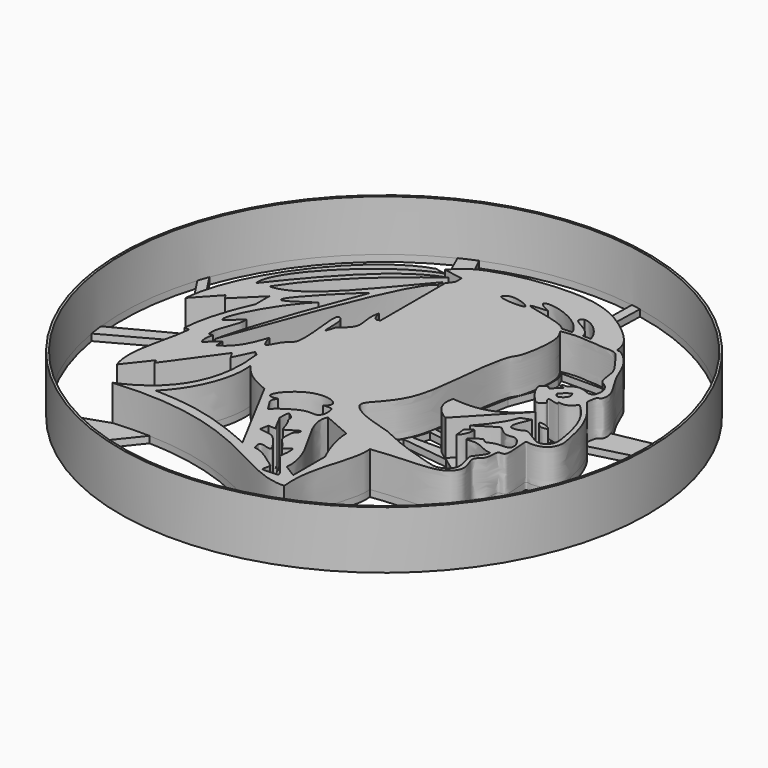
from build123d import *

# Parameters (mm, degrees)
F0_R      = 59.4873424899
F1_DEPTH  = 12
F2_T      = -0.5
F4_DEPTH  = 8
F5_DEPTH  = 1
F7_DEPTH  = 25
F8_DEPTH  = 25
F9_DEPTH  = 25
F10_DEPTH = 25
F11_DEPTH = 25
F12_DEPTH = 8
F13_DEPTH = 25
F14_DEPTH = 25
F16_DEPTH = 25
F18_DEPTH = 25


with BuildPart() as f1:
    # F0 (on Top) → F1 (new body)
    with BuildSketch(Plane.XY):
        with Locations((7.5341895083, 11.4558260064)):
            Circle(F0_R)
    extrude(amount=F1_DEPTH)

    # F2
    f2_openings = [f1.faces().sort_by_distance(p)[0] for p in [
        (7.53419, 11.455826, 12),
    ]]
    offset(amount=F2_T, openings=f2_openings)

    # F3 (on face) → F4 (join)
    with BuildSketch(Plane.XY.offset(0.5)):
        with BuildLine():
            add(Edge.make_bspline(
                [(-6.788874045, 46.4751496911), (-7.5742630288, 46.6331131756), (-8.3596520126, 46.7910766602), (-9.1450409964, 46.9490401447)],
                knots=[0, 0, 0, 0, 2.4033507577, 2.4033507577, 2.4033507577, 2.4033507577], degree=3))
            add(Edge.make_bspline(
                [(-9.1450409964, 46.9490401447), (-20.1948061585, 43.7746718526), (-35.384979099, 25.5464650691), (-36.6260893643, 10.7414200902)],
                knots=[0, 0, 0, 0, 45.4554701814, 45.4554701814, 45.4554701814, 45.4554701814], degree=3))
            add(Edge.make_bspline(
                [(-36.6260893643, 10.7414200902), (-35.0185632706, 12.4765286843), (-33.4110371768, 14.2116372784), (-31.8035110831, 15.9467458725)],
                knots=[0, 0, 0, 0, 7.0959620756, 7.0959620756, 7.0959620756, 7.0959620756], degree=3))
            add(Edge.make_bspline(
                [(-31.8035110831, 15.9467458725), (-31.5738637, 15.6150336067), (-31.3442163169, 15.2833213409), (-31.1145689338, 14.9516090751)],
                knots=[0, 0, 0, 0, 1.2103464507, 1.2103464507, 1.2103464507, 1.2103464507], degree=3))
            add(Edge.make_bspline(
                [(-31.1145689338, 14.9516090751), (-29.2510886987, 16.7850553989), (-27.3876084636, 18.6185017228), (-25.5241282284, 20.4519480467)],
                knots=[0, 0, 0, 0, 7.842624311, 7.842624311, 7.842624311, 7.842624311], degree=3))
            add(Edge.make_bspline(
                [(-25.5241282284, 20.4519480467), (-25.5241282284, 19.1528716435), (-25.5241282284, 17.8537952403), (-25.5241282284, 16.5547188371)],
                knots=[0, 0, 0, 0, 3.8972292095, 3.8972292095, 3.8972292095, 3.8972292095], degree=3))
            add(Edge.make_bspline(
                [(-25.5241282284, 16.5547188371), (-27.845768258, 11.516510509), (-29.4065847993, 6.2442268245), (-29.7001656145, 1.7376267351)],
                knots=[0, 0, 0, 0, 15.3943335877, 15.3943335877, 15.3943335877, 15.3943335877], degree=3))
            add(Edge.make_bspline(
                [(-29.7001656145, 1.7376267351), (-29.3382542829, 1.7376267351), (-28.9763429513, 1.7376267351), (-28.6144316196, 1.7376267351)],
                knots=[0, 0, 0, 0, 1.0857339948, 1.0857339948, 1.0857339948, 1.0857339948], degree=3))
            add(Edge.make_bspline(
                [(-28.6144316196, 1.7376267351), (-29.1557156791, -4.373605984), (-32.2709232569, -11.0034225509), (-30.2382837981, -16.5960714221)],
                knots=[0, 0, 0, 0, 18.4054715782, 18.4054715782, 18.4054715782, 18.4054715782], degree=3))
            add(Edge.make_bspline(
                [(-30.2382837981, -16.5960714221), (-28.7705672284, -14.7404195741), (-27.3028506587, -12.8847677261), (-25.835134089, -11.029115878)],
                knots=[0, 0, 0, 0, 7.0977969392, 7.0977969392, 7.0977969392, 7.0977969392], degree=3))
            add(Edge.make_bspline(
                [(-25.835134089, -11.029115878), (-25.702893734, -11.3504299273), (-25.570653379, -11.6717439766), (-25.4384130239, -11.9930580258)],
                knots=[0, 0, 0, 0, 1.0423876763, 1.0423876763, 1.0423876763, 1.0423876763], degree=3))
            add(Edge.make_bspline(
                [(-25.4384130239, -11.9930580258), (-22.682165727, -8.1792573522), (-19.9259184301, -4.3654566786), (-17.1696711332, -0.551656005)],
                knots=[0, 0, 0, 0, 14.1165779373, 14.1165779373, 14.1165779373, 14.1165779373], degree=3))
            add(Edge.make_bspline(
                [(-17.1696711332, -0.551656005), (-16.869980221, -1.0301717557), (-16.5702893088, -1.5086875064), (-16.2705983967, -1.9872032572)],
                knots=[0, 0, 0, 0, 1.6938499635, 1.6938499635, 1.6938499635, 1.6938499635], degree=3))
            add(Edge.make_bspline(
                [(-16.2705983967, -1.9872032572), (-15.5736378705, -0.5515369121), (-14.8766773442, 0.884129433), (-14.179716818, 2.319795778)],
                knots=[0, 0, 0, 0, 4.7876953187, 4.7876953187, 4.7876953187, 4.7876953187], degree=3))
            add(Edge.make_bspline(
                [(-14.179716818, 2.319795778), (-13.9159178361, 2.1115756826), (-13.6521188542, 1.9033555873), (-13.3883198723, 1.6951354919)],
                knots=[0, 0, 0, 0, 1.0082210069, 1.0082210069, 1.0082210069, 1.0082210069], degree=3))
            add(Edge.make_bspline(
                [(-13.3883198723, 1.6951354919), (-12.3234763741, -6.0034450144), (-13.3678512648, -17.1295609325), (-26.5038497746, -22.5158147514)],
                knots=[0, 0, 0, 0, 27.5351999503, 27.5351999503, 27.5351999503, 27.5351999503], degree=3))
            add(Edge.make_bspline(
                [(-26.5038497746, -22.5158147514), (2.4359009694, -20.0700405985), (11.1790737137, -34.7730405629), (21.64244093, -34.3111865222)],
                knots=[0, 0, 0, 0, 49.57011301, 49.57011301, 49.57011301, 49.57011301], degree=3))
            add(Edge.make_bspline(
                [(21.64244093, -34.3111865222), (20.6804629415, -25.680128485), (25.368778035, -19.0705880523), (24.6851760894, -14.0044149011)],
                knots=[0, 0, 0, 0, 20.5334656335, 20.5334656335, 20.5334656335, 20.5334656335], degree=3))
            add(Edge.make_bspline(
                [(24.6851760894, -14.0044149011), (31.4203864804, -13.0088033284), (39.8787983604, -13.9979709919), (42.9077135342, -8.9744703884), (40.2608907718, -5.2901580956), (43.3229963097, -4.1004979919), (42.502269401, -0.2400257433), (45.4807242986, -1.4947423532), (43.8006999116, 5.8275946352), (45.3189401552, 5.1097271295), (48.5448532551, 5.4593056768), (50.1701990087, 8.1834617531), (49.5092025857, 11.7358351218), (47.6457096292, 19.3782393752), (43.2128446136, 23.7401825753), (43.3420728185, 24.318962842), (43.5155714078, 26.3419427744), (44.5822257111, 26.2924371009), (45.1536300666, 28.8889895505), (41.8609584933, 33.4125296859), (40.697303877, 36.3875908589), (39.0858287296, 40.0978257462), (35.86247278, 42.8091540368), (35.1517531555, 42.4474480564), (34.9945685118, 43.3153217969), (34.6128537037, 45.5225993269), (31.289150557, 49.0320514182), (26.0818222122, 52.8339002597), (18.5846250932, 55.2442402719), (7.3532003895, 54.5085175402), (0.6225336238, 52.9054590582), (-4.8986066858, 50.7619360042), (-6.8481677391, 48.6104911669), (-7.7110002749, 47.6583093405)],
                knots=[0, 0, 0, 0, 0.0661097727, 0.0997599204, 0.1309319742, 0.156893689, 0.1851549945, 0.2045886008, 0.2447622715, 0.2596585556, 0.2892935752, 0.3172218242, 0.3485497582, 0.3971940608, 0.4370504775, 0.4495651593, 0.4718950214, 0.4863622275, 0.5104831583, 0.5501651968, 0.5809655543, 0.6155613454, 0.6486292222, 0.6600414806, 0.6733383501, 0.6979446317, 0.7345233011, 0.777255567, 0.824559771, 0.880910179, 0.9259856536, 0.966071568, 1, 1, 1, 1], degree=3))
            add(Edge.make_bspline(
                [(-7.7110002749, 47.6583093405), (-6.260347863, 47.4030052622), (-4.8096954512, 47.147701184), (-3.3590430394, 46.8923971057)],
                knots=[0, 0, 0, 0, 4.4188407225, 4.4188407225, 4.4188407225, 4.4188407225], degree=3))
            add(Edge.make_bspline(
                [(-3.3590430394, 46.8923971057), (-3.3590430394, 46.3317856193), (-3.3590430394, 45.7711741328), (-3.3590430394, 45.2105626464)],
                knots=[0, 0, 0, 0, 1.6818344593, 1.6818344593, 1.6818344593, 1.6818344593], degree=3))
            add(Edge.make_bspline(
                [(-3.3590430394, 45.2105626464), (-3.7266135526, 44.7018506626), (-4.0941840659, 44.1931386789), (-4.4617545791, 43.6844266951)],
                knots=[0, 0, 0, 0, 1.8828339496, 1.8828339496, 1.8828339496, 1.8828339496], degree=3))
            add(Edge.make_bspline(
                [(-4.4617545791, 43.6844266951), (-4.4617545791, 37.6148714374), (-4.4617545791, 31.5453161796), (-4.4617545791, 25.4757609218)],
                knots=[0, 0, 0, 0, 18.2086657733, 18.2086657733, 18.2086657733, 18.2086657733], degree=3))
            add(Edge.make_bspline(
                [(-4.4617545791, 25.4757609218), (-5.3593576886, 25.0131804496), (-5.7247309014, 25.0131804496), (-6.365370471, 27.3643154651)],
                knots=[0, 0, 0, 0, 2.6814905793, 2.6814905793, 2.6814905793, 2.6814905793], degree=3))
            add(Edge.make_bspline(
                [(-6.365370471, 27.3643154651), (-7.118516136, 24.8921699822), (-5.1342164855, 21.3389590115), (-7.8621859997, 19.3585443787), (-8.8928146288, 18.5253284872)],
                knots=[0, 0, 0, 0, 0.5533497919, 1, 1, 1, 1], degree=3))
            add(Edge.make_bspline(
                [(-8.8928146288, 18.5253284872), (-9.2199804976, 17.4240633886), (-10.0085418204, 14.7697062393), (-9.5136907121, 21.0216328153), (-11.1201298538, 22.3067423911), (-11.8491541767, 20.3660341732), (-9.7945632488, 9.3736280074), (-12.8899344897, 8.8138300439), (-14.4504683707, 4.1770807777), (-15.2434695909, 6.7969305221), (-15.628721565, 8.0696931109)],
                knots=[0, 0, 0, 0, 0.1039952813, 0.2506577379, 0.3357497927, 0.4187182038, 0.645798299, 0.7602652643, 0.8835332433, 1, 1, 1, 1], degree=3))
            add(Edge.make_bspline(
                [(-15.628721565, 8.0696931109), (-16.8774724007, 4.0619284846), (-18.5199882835, 1.2876591645), (-21.1115125567, 0)],
                knots=[0, 0, 0, 0, 9.7560721585, 9.7560721585, 9.7560721585, 9.7560721585], degree=3))
            add(Edge.make_bspline(
                [(-21.1115125567, 0), (-21.1115125567, 0.6004122552), (-21.1115125567, 1.2008245103), (-21.1115125567, 1.8012367655)],
                knots=[0, 0, 0, 0, 1.8012367655, 1.8012367655, 1.8012367655, 1.8012367655], degree=3))
            add(Edge.make_bspline(
                [(-21.1115125567, 1.8012367655), (-22.0608326296, 1.0234053868), (-23.0101527025, 0.2455740081), (-23.9594727755, -0.5322573707)],
                knots=[0, 0, 0, 0, 3.6818571796, 3.6818571796, 3.6818571796, 3.6818571796], degree=3))
            add(Edge.make_bspline(
                [(-23.9594727755, -0.5322573707), (-24.356212467, 0), (-24.4296342134, 1.3129552826), (-23.9594727755, 2.6693968102)],
                knots=[0, 0, 0, 0, 3.2016541809, 3.2016541809, 3.2016541809, 3.2016541809], degree=3))
            add(Edge.make_bspline(
                [(-23.9594727755, 2.6693968102), (-24.2742293825, 2.6693968102), (-24.5889859895, 2.6693968102), (-24.9037425965, 2.6693968102)],
                knots=[0, 0, 0, 0, 0.944269821, 0.944269821, 0.944269821, 0.944269821], degree=3))
            add(Edge.make_bspline(
                [(-24.9037425965, 2.6693968102), (-25.3733620048, 5.5338004604), (-22.7999053895, 8.2243969664), (-23.1472477317, 11.0114775598)],
                knots=[0, 0, 0, 0, 8.5249976799, 8.5249976799, 8.5249976799, 8.5249976799], degree=3))
            add(Edge.make_bspline(
                [(-23.1472477317, 11.0114775598), (-24.1456733396, 10.1085702578), (-25.1440989474, 9.2056629558), (-26.1425245553, 8.3027556539)],
                knots=[0, 0, 0, 0, 4.0384226641, 4.0384226641, 4.0384226641, 4.0384226641], degree=3))
            add(Edge.make_bspline(
                [(-26.1425245553, 8.3027556539), (-28.1542707235, 7.700425107), (-22.5793942809, 19.4159504026), (-17.2420535237, 24.0014009178)],
                knots=[0, 0, 0, 0, 18.0462142209, 18.0462142209, 18.0462142209, 18.0462142209], degree=3))
            add(Edge.make_bspline(
                [(-17.2420535237, 24.0014009178), (-32.1297980845, 13.32757622), (-14.5121896639, 31.1077330261), (-12.4483183026, 32.5140841305)],
                knots=[0, 0, 0, 0, 9.7696301286, 9.7696301286, 9.7696301286, 9.7696301286], degree=3))
            add(Edge.make_bspline(
                [(-12.4483183026, 32.5140841305), (-16.4897162467, 22.0156740397), (-20.3830059618, 11.8797151372), (-22.8438787162, 1.7358621117)],
                knots=[0, 0, 0, 0, 32.4864068028, 32.4864068028, 32.4864068028, 32.4864068028], degree=3))
            add(Edge.make_bspline(
                [(-22.8438787162, 1.7358621117), (-17.1813182533, 16.6642982513), (-9.2742322013, 39.8760512471), (-5.0879502669, 42.356107384)],
                knots=[0, 0, 0, 0, 44.3314484433, 44.3314484433, 44.3314484433, 44.3314484433], degree=3))
            add(Edge.make_bspline(
                [(-5.0879502669, 42.356107384), (-5.0879502669, 42.7898851534), (-5.0879502669, 43.2236629228), (-5.0879502669, 43.6574406922)],
                knots=[0, 0, 0, 0, 1.3013333082, 1.3013333082, 1.3013333082, 1.3013333082], degree=3))
            add(Edge.make_bspline(
                [(-5.0879502669, 43.6574406922), (-12.7684986219, 34.9499061704), (-20.4359199852, 23.6657764763), (-27.8762094676, 23.3720503747)],
                knots=[0, 0, 0, 0, 30.5090448512, 30.5090448512, 30.5090448512, 30.5090448512], degree=3))
            add(Edge.make_bspline(
                [(-27.8762094676, 23.3720503747), (-21.9308249652, 32.5869880617), (-13.2507262751, 39.8686304688), (-5.3421910852, 45.7035824656)],
                knots=[0, 0, 0, 0, 31.725058077, 31.725058077, 31.725058077, 31.725058077], degree=3))
            add(Edge.make_bspline(
                [(-5.3421910852, 45.7035824656), (-13.974067755, 42.8102165461), (-22.2201626748, 33.3103314042), (-30.4662566632, 22.9424349964)],
                knots=[0, 0, 0, 0, 33.9011578753, 33.9011578753, 33.9011578753, 33.9011578753], degree=3))
            add(Edge.make_bspline(
                [(-30.4662566632, 22.9424349964), (-31.5753817558, 28.1504951417), (-17.1567704529, 43.1960001588), (-6.788874045, 46.4751496911)],
                knots=[0, 0, 0, 0, 33.3827366846, 33.3827366846, 33.3827366846, 33.3827366846], degree=3))
        make_face()
        with BuildLine():
            add(Edge.make_bspline(
                [(5.6154187769, -26.0367877781), (2.3542245229, -19.9070692373), (-0.9069697311, -13.7773506964), (-4.168163985, -7.6476321556)],
                knots=[0, 0, 0, 0, 20.8297752309, 20.8297752309, 20.8297752309, 20.8297752309], degree=3))
            add(Edge.make_bspline(
                [(-18.6542645097, -20.1154593378), (-8.2356445491, -20.3407425433), (-1.9417622825, -22.6660370827), (5.6154187769, -26.0367877781)],
                knots=[0, 0, 0, 0, 24.9815863653, 24.9815863653, 24.9815863653, 24.9815863653], degree=3))
            add(Edge.make_bspline(
                [(-11.5750683472, -2.2398305591), (-10.9035726637, -7.2967535816), (-13.1941875443, -14.6317481995), (-18.6542645097, -20.1154593378)],
                knots=[0, 0, 0, 0, 19.2263652972, 19.2263652972, 19.2263652972, 19.2263652972], degree=3))
            add(Edge.make_bspline(
                [(-4.168163985, -7.6476321556), (-6.3726911321, -6.5617035143), (-9.1454936191, -5.7854270563), (-11.5750683472, -2.2398305591)],
                knots=[0, 0, 0, 0, 9.1709623452, 9.1709623452, 9.1709623452, 9.1709623452], degree=3))
        make_face(mode=Mode.SUBTRACT)
        with BuildLine():
            add(Edge.make_bspline(
                [(0, -9.0572061017), (-0.2645310114, -9.5932930411), (-0.7468147702, -10.5706681428), (0.045301663, -11.3902813622), (0.8668066057, -12.9619343187), (1.2294716724, -13.3488076403), (1.446455229, -12.7144195316), (4.9688961665, -10.1774777337), (7.4980891636, -9.5151932481), (9.2376402936, -9.8583079088), (10.154662228, -8.8148276058), (10.1546068209, -7.4633232437), (10.0039312514, -5.837833383), (8.6272584522, -6.0245212892), (7.8701674938, -6.1271889135)],
                knots=[0, 0, 0, 0, 0.0854154269, 0.1557264417, 0.2483645889, 0.2885944446, 0.3324989132, 0.4740921562, 0.58933418, 0.6747000331, 0.7479744251, 0.8286680234, 0.9057772548, 1, 1, 1, 1], degree=3))
            add(Edge.make_bspline(
                [(0, -9.0572061017), (-4.1452348232, -10.3760696948), (2.5014719152, -0.4098009415), (10.6831286103, -4.2017106898), (7.8701674938, -6.1271889135)],
                knots=[0, 0, 0, 0, 0.5210447841, 1, 1, 1, 1], degree=3))
        make_face(mode=Mode.SUBTRACT)
        with BuildLine():
            add(Edge.make_bspline(
                [(5.1498264074, -12.225119397), (4.5958240516, -12.9457740113), (4.9169271563, -13.7789739917), (4.8004775308, -14.555901289)],
                knots=[0, 0, 0, 0, 2.3568175291, 2.3568175291, 2.3568175291, 2.3568175291], degree=3))
            add(Edge.make_bspline(
                [(4.7987098806, -20.0785342604), (5.7724814743, -20.1913483877), (7.4189069578, -20.382091325), (8.5375255167, -21.0836039101), (9.9708354738, -22.7735619201), (10.9635640927, -24.3487015152), (11.16140044, -24.8108655945), (10.0607985348, -24.8452604894), (9.5527738546, -24.4681972349), (8.1187968022, -24.3535355809), (8.2567802975, -25.1298492888), (8.3967630208, -26.2692409476), (9.2341103937, -26.2527518827), (11.298443378, -27.0787968976), (14.4937781974, -29.4687889017), (14.9215131708, -29.7666674646), (14.9290560067, -30.329866858), (14.6267408098, -31.5877046431), (14.8071931115, -31.9791222955), (17.869888894, -31.7424544441), (18.2831302431, -31.7203881576), (18.202149259, -30.9372767697), (14.1100233743, -26.1422164865), (13.883406967, -25.9214359625), (14.1063020353, -25.3431630773), (14.2329730459, -22.9118384268), (14.0683993938, -22.319332604), (13.6318646713, -22.5819750792), (12.5311656159, -23.4799370597), (12.1242546462, -23.1901193877), (11.8274455444, -22.1645752032), (10.0699772346, -20.9803716058), (10.0700256937, -19.3210268091), (10.0243759329, -17.4988796803), (11.0617744307, -16.8216214917), (11.0779036061, -16.1299363866), (10.3160442714, -16.3432905785), (8.5285099944, -17.5896632623), (7.8283825333, -17.8436675884), (7.4308310994, -15.3233460051), (6.2618545096, -14.1348071238), (6.6652358074, -13.2914899285), (5.7312741391, -12.6342753166), (5.1498264074, -12.225119397)],
                knots=[0, 0, 0, 0, 0.0366641339, 0.0619906812, 0.0960437549, 0.1270632893, 0.1389348515, 0.159781213, 0.1797196774, 0.2036789562, 0.2209840277, 0.2439688327, 0.2616900715, 0.2963372589, 0.3415305119, 0.3563490622, 0.3726165288, 0.398118428, 0.4105827178, 0.4497683635, 0.4629390012, 0.4804220758, 0.5373497892, 0.5494581316, 0.5659472094, 0.6019573018, 0.6170074514, 0.6312143004, 0.6577345718, 0.6709040271, 0.6934331836, 0.7252530482, 0.7538667532, 0.7835824673, 0.8075318196, 0.8223137334, 0.8395887224, 0.8738706133, 0.889141067, 0.9232129585, 0.9520974743, 0.9701777751, 1, 1, 1, 1], degree=3))
            Line((4.7987098806, -20.0785342604), (5.1620141603, -18.1744359434))
            add(Edge.make_bspline(
                [(4.8004775308, -14.555901289), (5.4555494426, -15.8678510469), (6.3480411218, -17.65529487), (7.0221805838, -18.1885866948), (6.3686234632, -18.2427794337), (5.6347310381, -18.2012110737), (5.1620141603, -18.1744359434)],
                knots=[0, 0, 0, 0, 0.4365685924, 0.5947955165, 0.7389985347, 1, 1, 1, 1], degree=3))
        make_face(mode=Mode.SUBTRACT)
        with BuildLine():
            add(Edge.make_bspline(
                [(17.4773391336, -28.3899214119), (18.162522465, -20.6016898155), (9.1288490221, -14.0882572159), (11.3532589749, -9.150291793)],
                knots=[0, 0, 0, 0, 20.1907826906, 20.1907826906, 20.1907826906, 20.1907826906], degree=3))
            add(Edge.make_bspline(
                [(11.3532589749, -9.150291793), (13.4800349673, -10.0695453584), (15.6068109597, -10.9887989238), (17.7335869521, -11.9080524892)],
                knots=[0, 0, 0, 0, 6.9508149993, 6.9508149993, 6.9508149993, 6.9508149993], degree=3))
            add(Edge.make_bspline(
                [(17.7335869521, -11.9080524892), (17.7680533379, -15.1724759489), (19.2658808082, -18.9675502479), (20.3504525125, -21.1802013218)],
                knots=[0, 0, 0, 0, 9.6343515265, 9.6343515265, 9.6343515265, 9.6343515265], degree=3))
            add(Edge.make_bspline(
                [(20.3504525125, -21.1802013218), (20.3504525125, -24.1771942625), (20.3504525125, -27.1741872032), (20.3504525125, -30.171180144)],
                knots=[0, 0, 0, 0, 8.9909788221, 8.9909788221, 8.9909788221, 8.9909788221], degree=3))
            add(Edge.make_bspline(
                [(20.3504525125, -30.171180144), (19.3927480529, -29.5774272333), (18.4350435932, -28.9836743226), (17.4773391336, -28.3899214119)],
                knots=[0, 0, 0, 0, 3.3804826813, 3.3804826813, 3.3804826813, 3.3804826813], degree=3))
        make_face(mode=Mode.SUBTRACT)
        with BuildLine():
            add(Edge.make_bspline(
                [(22.7694474161, 42.0021675527), (23.3083089528, 41.2060983867), (24.7003362064, 39.1496332294), (23.339719649, 30.2437580014), (21.7974243238, 29.0349786844), (20.5693784705, 22.7953377591), (19.8683694179, 14.5370699684), (18.6136479651, 6.1220995523), (14.7879140743, 1.2598356693), (11.4162914068, -2.0794907026), (17.2021845317, -5.3083596742), (22.4276363402, -6.3010036723), (27.3605871789, -9.0986095135), (36.5682887264, -11.8889052883), (38.1187957301, -12.0350404958), (39.6592615057, -11.5388666283), (41.1559693192, -10.0940688961), (41.0045624293, -8.0045640484), (40.2409309864, -5.6026004543), (40.1477463145, -4.9709620413), (41.6733432587, -3.3791698623), (42.3798396081, -1.6912172401), (40.9999497266, -1.9761399213), (37.9789433904, 0.0820981817), (35.4702663094, -0.7167675846), (35.6356622801, 0.1771675537), (37.5055518175, 1.2662784934), (37.9128459719, 1.5225040467), (38.3125038983, 1.179929435), (38.9651807945, 0.5345109109), (40.4302499003, 1.7431372107), (43.5158164187, 1.3380904192), (43.8883110807, 2.504431153), (43.8210130606, 3.5136055123), (42.1293934621, 5.9073521246), (39.8837870663, 4.7363992183), (38.040155106, 6.6909883538), (37.475059578, 6.8980085427), (36.9422863366, 6.6472757985), (34.6427773026, 5.1828125762), (32.8684300184, 4.052803386)],
                knots=[0, 0, 0, 0, 0.0300913732, 0.0777342762, 0.1007623302, 0.140081111, 0.1889991456, 0.2366536396, 0.277800779, 0.3078677864, 0.3451087119, 0.3837277213, 0.4243119924, 0.4745626062, 0.494656109, 0.5145705231, 0.5371829726, 0.5609590076, 0.5866673852, 0.599027368, 0.6235444962, 0.6428588699, 0.6580934884, 0.6899345088, 0.7136111822, 0.7244733367, 0.7488830479, 0.7597248954, 0.7707365591, 0.7846452827, 0.806040571, 0.8339349906, 0.849285546, 0.8659139216, 0.8916361893, 0.9154033301, 0.9408233602, 0.9525273551, 0.9633691552, 1, 1, 1, 1], degree=3))
            add(Edge.make_bspline(
                [(41.1039143801, 8.2325562835), (41.3458143738, 8.4154196703), (41.8698152277, 8.8115361373), (43.0118251511, 8.2219383103), (44.5133712993, 7.3123500614), (45.5859154377, 6.520146273), (46.7109761989, 6.3386192338), (47.9734709185, 6.9622970822), (48.8840992971, 8.2697135757), (48.5572945938, 11.1288847051), (47.4543858931, 16.2217234467), (45.2930140729, 20.0898679386), (43.3103316297, 21.8898742823), (42.9476578631, 22.294669801), (42.5707279097, 21.6474310552), (41.5378451518, 20.5997323738), (39.9607563352, 20.4925298303), (39.2473180857, 20.8354944876), (40.1221125478, 19.7702791727), (37.5915975161, 20.6597867226), (37.2652511683, 20.6046807792), (37.2360397126, 20.1465030028), (37.8943703264, 19.531603776), (37.9627056496, 18.9216099187), (36.6170708291, 18.0767062497), (36.0219411564, 18.4568366484), (34.3998075171, 20.0562827093), (32.897394685, 22.5538052724), (32.9535222764, 23.5760222145), (33.7053143981, 24.0856028207), (34.4722548992, 24.3198778416), (34.619126791, 23.6206350541), (35.4782608985, 24.159791069), (35.9283190637, 25.0697022537), (36.7569035951, 25.3662474024), (36.7368418242, 25.7223329743), (35.7120517226, 25.6203735713), (35.8113453568, 26.4157207344), (36.8304242047, 26.2132615063), (37.1729975667, 26.6494424821), (38.5853179804, 27.4844415793), (40.2687134298, 27.1182295007), (41.3162100956, 26.5049817692), (42.6122881053, 26.6726356618), (42.8748768138, 28.0331202832), (42.9881809305, 29.2385246869), (41.8004025348, 31.0199662561), (40.1845194969, 31.4115203432), (40.029370182, 34.5035315048), (39.474454535, 36.64735631), (37.3858299238, 39.1511196472), (36.4485529284, 40.6720282434), (35.0647965284, 42.1258308888), (32.149014834, 41.8310991311), (31.1084640869, 42.2156340317), (28.9531310613, 42.1468758981), (27.403529759, 42.4249894498), (25.2902171771, 42.4033707823), (23.6421172181, 42.1410608179), (22.7694474161, 42.0021675527)],
                knots=[0, 0, 0, 0, 0.0141138809, 0.0305733188, 0.0512032397, 0.0687906958, 0.0844507223, 0.1019970607, 0.1201923454, 0.1454167653, 0.1806724483, 0.2136150859, 0.2377575285, 0.2465108285, 0.2579901999, 0.2766933778, 0.2961430988, 0.3057156501, 0.3163223347, 0.3380611206, 0.346629243, 0.3555234092, 0.3697841752, 0.3806837079, 0.3986016642, 0.4103934901, 0.43352597, 0.4598263931, 0.4739157017, 0.4881270647, 0.5004951515, 0.510514878, 0.523705825, 0.5398219788, 0.5532355534, 0.5595556556, 0.5734318733, 0.5832670224, 0.5973309489, 0.6084569487, 0.6273236812, 0.6471557364, 0.6640498659, 0.6797446594, 0.6965138833, 0.7134895096, 0.7348639487, 0.7532214589, 0.7784617029, 0.802045437, 0.8291033477, 0.8497691841, 0.8704701579, 0.8956396864, 0.9122198924, 0.9339929974, 0.9535003746, 0.9753784237, 1, 1, 1, 1], degree=3))
            add(Edge.make_bspline(
                [(39.971806109, 12.6014379784), (38.7163423002, 9.8341936246), (37.2641049325, 6.8497634493), (41.1039143801, 8.2325562835)],
                knots=[0, 0, 0, 0, 4.513180298, 4.513180298, 4.513180298, 4.513180298], degree=3))
            add(Edge.make_bspline(
                [(37.8731153905, 11.8517996743), (38.5969355702, 12.0096486062), (39.2722425361, 12.3515585437), (39.971806109, 12.6014379784)],
                knots=[0, 0, 0, 0, 2.2285556575, 2.2285556575, 2.2285556575, 2.2285556575], degree=3))
            add(Edge.make_bspline(
                [(32.8684300184, 4.052803386), (35.1543352008, 6.6129611805), (37.0475053787, 9.2202983797), (37.8731153905, 11.8517996743)],
                knots=[0, 0, 0, 0, 9.2666724761, 9.2666724761, 9.2666724761, 9.2666724761], degree=3))
        make_face(mode=Mode.SUBTRACT)
        with BuildLine():
            add(Edge.make_bspline(
                [(39.3373444676, 24.8138103634), (38.358874619, 24.3918970227), (37.7298556268, 23.7169340253), (37.1767580509, 23.0619870126)],
                knots=[0, 0, 0, 0, 2.7815496969, 2.7815496969, 2.7815496969, 2.7815496969], degree=3))
            add(Edge.make_bspline(
                [(37.1767580509, 23.0619870126), (37.3756509371, 22.6751774527), (37.8374525236, 21.7770595166), (39.9642962209, 23.3651163837), (39.534880586, 24.3573647374), (39.3373444676, 24.8138103634)],
                knots=[0, 0, 0, 0, 0.2900280562, 0.6734047609, 1, 1, 1, 1], degree=3))
        make_face(mode=Mode.SUBTRACT)
        with BuildLine():
            add(Edge.make_bspline(
                [(12.0508754626, 45.5157607794), (11.8903952277, 45.01421395), (7.187120307, 45.1966179332), (6.049689684, 45.933769528), (7.9535604987, 47.6971759292), (12.2008388916, 45.9844395694), (12.0508754626, 45.5157607794)],
                knots=[0, 0, 0, 0, 0.329129771, 0.4813026068, 0.6924392025, 1, 1, 1, 1], degree=3))
        make_face(mode=Mode.SUBTRACT)
        with BuildLine():
            add(Edge.make_bspline(
                [(16.197104007, 46.7562191188), (5.8987387456, 46.249512583), (20.9046564996, 45.3788489103), (22.3117284477, 42.9563298821)],
                knots=[0, 0, 0, 0, 7.1991520516, 7.1991520516, 7.1991520516, 7.1991520516], degree=3))
            add(Edge.make_bspline(
                [(16.197104007, 46.7562191188), (8.6119314656, 50.1434914768), (21.8000095338, 49.5852306485), (24.7104875743, 43.0607125163)],
                knots=[0, 0, 0, 0, 9.2808657362, 9.2808657362, 9.2808657362, 9.2808657362], degree=3))
            add(Edge.make_bspline(
                [(24.7104875743, 43.0607125163), (23.9109011988, 43.0259183049), (23.1113148232, 42.9911240935), (22.3117284477, 42.9563298821)],
                knots=[0, 0, 0, 0, 2.4010291714, 2.4010291714, 2.4010291714, 2.4010291714], degree=3))
        make_face(mode=Mode.SUBTRACT)
        with BuildLine():
            add(Edge.make_bspline(
                [(27.0085874945, 43.1164875627), (27.6098034034, 43.1154395143), (28.2110193123, 43.114391466), (28.8122352213, 43.1133434176)],
                knots=[0, 0, 0, 0, 1.8036504672, 1.8036504672, 1.8036504672, 1.8036504672], degree=3))
            add(Edge.make_bspline(
                [(23.3673397452, 48.0997934937), (20.6358563155, 46.5792417526), (26.646591723, 46.150624752), (27.0085874945, 43.1164875627)],
                knots=[0, 0, 0, 0, 6.1718735547, 6.1718735547, 6.1718735547, 6.1718735547], degree=3))
            add(Edge.make_bspline(
                [(28.8122352213, 43.1133434176), (28.1585734338, 45.539803803), (25.3436267376, 48.2661165297), (23.3673397452, 48.0997934937)],
                knots=[0, 0, 0, 0, 7.3831951828, 7.3831951828, 7.3831951828, 7.3831951828], degree=3))
        make_face(mode=Mode.SUBTRACT)
        with BuildLine():
            add(Edge.make_bspline(
                [(27.5980774313, 3.649901133), (31.2589456638, 7.518600362), (34.9198138962, 11.3872995911), (38.5806821287, 15.2559988201)],
                knots=[0, 0, 0, 0, 15.9787080034, 15.9787080034, 15.9787080034, 15.9787080034], degree=3))
            add(Edge.make_bspline(
                [(38.5806821287, 15.2559988201), (33.9488722384, 10.6151876971), (30.6446384639, 9.404104203), (24.2309141904, 10.1012494415)],
                knots=[0, 0, 0, 0, 15.2475336051, 15.2475336051, 15.2475336051, 15.2475336051], degree=3))
            add(Edge.make_bspline(
                [(24.2309141904, 10.1012494415), (22.9933485389, 6.3361474313), (26.6844965518, 4.0821200237), (27.5980774313, 3.649901133)],
                knots=[0, 0, 0, 0, 7.2772029852, 7.2772029852, 7.2772029852, 7.2772029852], degree=3))
        make_face()
        with BuildLine():
            add(Edge.make_bspline(
                [(44.4371141493, 11.5220332518), (44.2429631948, 11.881550774), (43.1179367006, 12.8195555881), (41.605681181, 12.5849200413)],
                knots=[0, 0, 0, 0, 3.0243579453, 3.0243579453, 3.0243579453, 3.0243579453], degree=3))
            add(Edge.make_bspline(
                [(41.605681181, 12.5849200413), (41.9648755162, 12.0829158756), (42.6793400298, 11.0843918822), (43.8533388173, 11.3766879353), (44.4371141493, 11.5220332518)],
                knots=[0, 0, 0, 0, 0.5027462224, 1, 1, 1, 1], degree=3))
        make_face()
    extrude(amount=F4_DEPTH)

    # F5 (add): a face of the model
    f5_faces = [f1.faces().sort_by_distance(p)[0] for p in [
        (7.5341895083, 11.4558260064, 0),
    ]]
    extrude(f5_faces, amount=F5_DEPTH)

    # F6 (on face) → F7 (cut)
    with BuildSketch(Plane.XY.offset(0.5)):
        with BuildLine():
            Line((-47.9253143948, 31.5493573249), (-36.2070467981, 13.6930933465))
            add(Edge.make_bspline(
                [(-10.399095005, 46.5314860664), (-20.5663988994, 42.6984903232), (-33.5222030052, 27.3059485133), (-36.2070467981, 13.6930933465)],
                knots=[1.6971501535, 1.6971501535, 1.6971501535, 1.6971501535, 42.4745267545, 42.4745267545, 42.4745267545, 42.4745267545], degree=3))
            Line((-10.399095005, 46.5314860664), (-18.3214680274, 64.4746108607))
            ThreePointArc((-18.3214680274, 64.4746108607), (-36.3298840606, 50.8950149429), (-47.9253143948, 31.5493573249))
        make_face()
    extrude(amount=-F7_DEPTH, mode=Mode.SUBTRACT)

    # F6 (on face) → F8 (cut)
    with BuildSketch(Plane.XY.offset(0.5)):
        with BuildLine():
            ThreePointArc((16.7770039132, 69.7145331316), (0.7733759278, 70.0544435136), (-14.7323842228, 66.0791385048))
            Line((-14.7323842228, 66.0791385048), (-6.4431268598, 49.0037215726))
            add(Edge.make_bspline(
                [(16.5396461007, 54.7766642424), (13.4906295802, 54.90201676), (6.8648060157, 54.3921955218), (0.6225336238, 52.9054590582), (-4.1583763016, 51.0493224506), (-5.9380775133, 49.5005995164), (-6.4431268598, 49.0037215726)],
                knots=[0.8348282285, 0.8348282285, 0.8348282285, 0.8348282285, 0.880910179, 0.9259856536, 0.966071568, 0.9840333882, 0.9840333882, 0.9840333882, 0.9840333882], degree=3))
            Line((16.5396461007, 54.7766642424), (16.7770039132, 69.7145331316))
        make_face()
        with BuildLine():
            Line((-8.9104040677, 44.1349131496), (-9.8624872563, 45.2279658656))
            add(Edge.make_bspline(
                [(-30.4662566632, 22.9424349964), (-31.469142223, 27.651631776), (-19.7765267743, 40.4039385174), (-9.8624872563, 45.2279658656)],
                knots=[0, 0, 0, 0, 30.1851114812, 30.1851114812, 30.1851114812, 30.1851114812], degree=3))
            add(Edge.make_bspline(
                [(-8.9104040677, 44.1349131496), (-16.2600682802, 40.159960392), (-23.3631628172, 31.8732258985), (-30.4662566632, 22.9424349964)],
                knots=[4.6990767187, 4.6990767187, 4.6990767187, 4.6990767187, 33.9011578753, 33.9011578753, 33.9011578753, 33.9011578753], degree=3))
        make_face()
        with BuildLine():
            Line((-7.1342304328, 41.2855426071), (-8.5003296204, 43.3207690828))
            add(Edge.make_bspline(
                [(-27.8762094676, 23.3720503747), (-22.7141613865, 31.3728704033), (-15.4905525365, 37.9162782748), (-8.5003296204, 43.3207690828)],
                knots=[0, 0, 0, 0, 27.5451108509, 27.5451108509, 27.5451108509, 27.5451108509], degree=3))
            add(Edge.make_bspline(
                [(-7.1342304328, 41.2855426071), (-14.1288683025, 33.0319337642), (-21.0968252582, 23.6396854042), (-27.8762094676, 23.3720503747)],
                knots=[2.7100543149, 2.7100543149, 2.7100543149, 2.7100543149, 30.5090448512, 30.5090448512, 30.5090448512, 30.5090448512], degree=3))
        make_face()
        with BuildLine():
            add(Edge.make_bspline(
                [(-4.4617545791, 40.0326699018), (-4.4617545791, 35.1803669085), (-4.4617545791, 30.3280639152), (-4.4617545791, 25.4757609218)],
                knots=[3.6517567933, 3.6517567933, 3.6517567933, 3.6517567933, 18.2086657733, 18.2086657733, 18.2086657733, 18.2086657733], degree=3))
            Line((-4.4617545791, 40.0326699018), (-6.6679895796, 40.7259275228))
            add(Edge.make_bspline(
                [(-21.8232046373, 4.4485349176), (-16.9426123339, 17.5073668085), (-10.768630653, 35.0583567184), (-6.6679895796, 40.7259275228)],
                knots=[2.6060141281, 2.6060141281, 2.6060141281, 2.6060141281, 39.2416049207, 39.2416049207, 39.2416049207, 39.2416049207], degree=3))
            Line((-21.8232046373, 4.4485349176), (-21.1115125567, 1.8012367655))
            add(Edge.make_bspline(
                [(-21.1115125567, 0), (-21.1115125567, 0.6004122552), (-21.1115125567, 1.2008245103), (-21.1115125567, 1.8012367655)],
                knots=[0, 0, 0, 0, 1.8012367655, 1.8012367655, 1.8012367655, 1.8012367655], degree=3))
            add(Edge.make_bspline(
                [(-15.628721565, 8.0696931109), (-16.8774724007, 4.0619284846), (-18.5199882835, 1.2876591645), (-21.1115125567, 0)],
                knots=[0, 0, 0, 0, 9.7560721585, 9.7560721585, 9.7560721585, 9.7560721585], degree=3))
            add(Edge.make_bspline(
                [(-8.8928146288, 18.5253284872), (-9.2199804976, 17.4240633886), (-10.0085418204, 14.7697062393), (-9.5136907121, 21.0216328153), (-11.1201298538, 22.3067423911), (-11.8491541767, 20.3660341732), (-9.7945632488, 9.3736280074), (-12.8899344897, 8.8138300439), (-14.4504683707, 4.1770807777), (-15.2434695909, 6.7969305221), (-15.628721565, 8.0696931109)],
                knots=[0, 0, 0, 0, 0.1039952813, 0.2506577379, 0.3357497927, 0.4187182038, 0.645798299, 0.7602652643, 0.8835332433, 1, 1, 1, 1], degree=3))
            add(Edge.make_bspline(
                [(-6.365370471, 27.3643154651), (-7.118516136, 24.8921699822), (-5.1342164855, 21.3389590115), (-7.8621859997, 19.3585443787), (-8.8928146288, 18.5253284872)],
                knots=[0, 0, 0, 0, 0.5533497919, 1, 1, 1, 1], degree=3))
            add(Edge.make_bspline(
                [(-4.4617545791, 25.4757609218), (-5.3593576886, 25.0131804496), (-5.7247309014, 25.0131804496), (-6.365370471, 27.3643154651)],
                knots=[0, 0, 0, 0, 2.6814905793, 2.6814905793, 2.6814905793, 2.6814905793], degree=3))
        make_face()
        with BuildLine():
            Line((-17.2420535237, 24.0014009178), (-15.6944825238, 24.0014009178))
            add(Edge.make_bspline(
                [(-12.4483183026, 32.5140841305), (-13.5500533873, 29.6520876407), (-14.6407814377, 26.8170276193), (-15.6944825238, 24.0014009178)],
                knots=[0, 0, 0, 0, 8.8561964556, 8.8561964556, 8.8561964556, 8.8561964556], degree=3))
            add(Edge.make_bspline(
                [(-17.2420535237, 24.0014009178), (-32.1297980845, 13.32757622), (-14.5121896639, 31.1077330261), (-12.4483183026, 32.5140841305)],
                knots=[0, 0, 0, 0, 9.7696301286, 9.7696301286, 9.7696301286, 9.7696301286], degree=3))
        make_face()
        with BuildLine():
            Line((-24.8488827467, 4.4705939637), (-22.1466891376, 4.4705939637))
            add(Edge.make_bspline(
                [(-16.2441395112, 22.5249280231), (-18.4941386844, 16.4473248551), (-20.5494970359, 10.454543706), (-22.1466891376, 4.4705939637)],
                knots=[10.4060456536, 10.4060456536, 10.4060456536, 10.4060456536, 29.5670988114, 29.5670988114, 29.5670988114, 29.5670988114], degree=3))
            Line((-16.2441395112, 22.5249280231), (-18.7566935396, 22.5249280231))
            add(Edge.make_bspline(
                [(-26.1425245553, 8.3027556539), (-27.9639406852, 7.7574112208), (-23.5663580303, 17.3094097618), (-18.7566935396, 22.5249280231)],
                knots=[0, 0, 0, 0, 16.3388732567, 16.3388732567, 16.3388732567, 16.3388732567], degree=3))
            add(Edge.make_bspline(
                [(-23.1472477317, 11.0114775598), (-24.1456733396, 10.1085702578), (-25.1440989474, 9.2056629558), (-26.1425245553, 8.3027556539)],
                knots=[0, 0, 0, 0, 4.0384226641, 4.0384226641, 4.0384226641, 4.0384226641], degree=3))
            add(Edge.make_bspline(
                [(-24.8488827467, 4.4705939637), (-24.4133512844, 6.6791405186), (-22.8735541862, 8.8153561064), (-23.1472477317, 11.0114775598)],
                knots=[1.807599432, 1.807599432, 1.807599432, 1.807599432, 8.5249976799, 8.5249976799, 8.5249976799, 8.5249976799], degree=3))
        make_face()
    extrude(amount=-F8_DEPTH, mode=Mode.SUBTRACT)

    # F6 (on face) → F9 (cut)
    with BuildSketch(Plane.XY.offset(0.5)):
        with BuildLine():
            Line((41.5722241732, -10.779815719), (56.0815623582, -22.0502803533))
            ThreePointArc((56.0815623582, -22.0502803533), (63.8510923142, -6.091624873), (66.5215319982, 11.4558260064))
            ThreePointArc((66.5215319982, 11.4558260064), (65.9374606149, 19.7361942392), (64.1968129932, 27.8525840344))
            Line((64.1968129932, 27.8525840344), (44.2758079539, 22.7215811713))
            add(Edge.make_bspline(
                [(41.5722241732, -10.779815719), (41.9512723152, -10.1887542334), (42.4276490889, -8.3062324685), (40.2608907718, -5.2901580956), (43.3229963097, -4.1004979919), (42.502269401, -0.2400257433), (45.4807242986, -1.4947423532), (43.8006999116, 5.8275946352), (45.3189401552, 5.1097271295), (48.5448532551, 5.4593056768), (50.1701990087, 8.1834617531), (49.5092025857, 11.7358351218), (47.87526146, 18.4368202611), (44.9877850721, 21.8742955109), (44.2758079539, 22.7215811713)],
                knots=[0.0825756015, 0.0825756015, 0.0825756015, 0.0825756015, 0.0997599204, 0.1309319742, 0.156893689, 0.1851549945, 0.2045886008, 0.2447622715, 0.2596585556, 0.2892935752, 0.3172218242, 0.3485497582, 0.3971940608, 0.4222895488, 0.4222895488, 0.4222895488, 0.4222895488], degree=3))
        make_face()
        with BuildLine():
            add(Edge.make_bspline(
                [(21.64244093, -34.3111865222), (20.6804629415, -25.680128485), (25.368778035, -19.0705880523), (24.6851760894, -14.0044149011)],
                knots=[0, 0, 0, 0, 20.5334656335, 20.5334656335, 20.5334656335, 20.5334656335], degree=3))
            Line((21.64244093, -34.3111865222), (25.3028262077, -44.791681706))
            ThreePointArc((25.3028262077, -44.791681706), (41.7938213909, -36.5627557853), (54.9404039897, -23.6462736823))
            Line((54.9404039897, -23.6462736823), (40.3512819334, -11.9662655053))
            add(Edge.make_bspline(
                [(24.6851760894, -14.0044149011), (31.4203864804, -13.0088033284), (37.3103661093, -13.6976060812), (40.2179277834, -12.0508118263), (40.3512819334, -11.9662655053)],
                knots=[0, 0, 0, 0, 0.0661097727, 0.0694674021, 0.0694674021, 0.0694674021, 0.0694674021], degree=3))
        make_face()
        with BuildLine():
            add(Edge.make_bspline(
                [(-18.3615385479, -22.2654142632), (2.9085687293, -22.8393433211), (11.2567723865, -33.3951306106), (20.0228156052, -34.2649395024)],
                knots=[4.9862074176, 4.9862074176, 4.9862074176, 4.9862074176, 46.9953223954, 46.9953223954, 46.9953223954, 46.9953223954], degree=3))
            Line((-18.3615385479, -22.2654142632), (-28.6439706961, -35.1343800271))
            ThreePointArc((-28.6439706961, -35.1343800271), (-4.0460147536, -46.3836539642), (22.9868100747, -45.471523235))
            Line((22.9868100747, -45.471523235), (20.0228156052, -34.2649395024))
        make_face()
        with BuildLine():
            Line((-28.6601050151, -14.600760859), (-24.5857650998, -21.6474957566))
            add(Edge.make_bspline(
                [(-13.3883198723, 1.6951354919), (-12.3778221858, -5.6105369421), (-13.2667428484, -16.0028142), (-24.5857650998, -21.6474957566)],
                knots=[0, 0, 0, 0, 26.1299016198, 26.1299016198, 26.1299016198, 26.1299016198], degree=3))
            add(Edge.make_bspline(
                [(-14.179716818, 2.319795778), (-13.9159178361, 2.1115756826), (-13.6521188542, 1.9033555873), (-13.3883198723, 1.6951354919)],
                knots=[0, 0, 0, 0, 1.0082210069, 1.0082210069, 1.0082210069, 1.0082210069], degree=3))
            add(Edge.make_bspline(
                [(-16.2705983967, -1.9872032572), (-15.5736378705, -0.5515369121), (-14.8766773442, 0.884129433), (-14.179716818, 2.319795778)],
                knots=[0, 0, 0, 0, 4.7876953187, 4.7876953187, 4.7876953187, 4.7876953187], degree=3))
            add(Edge.make_bspline(
                [(-17.1696711332, -0.551656005), (-16.869980221, -1.0301717557), (-16.5702893088, -1.5086875064), (-16.2705983967, -1.9872032572)],
                knots=[0, 0, 0, 0, 1.6938499635, 1.6938499635, 1.6938499635, 1.6938499635], degree=3))
            add(Edge.make_bspline(
                [(-25.4384130239, -11.9930580258), (-22.682165727, -8.1792573522), (-19.9259184301, -4.3654566786), (-17.1696711332, -0.551656005)],
                knots=[0, 0, 0, 0, 14.1165779373, 14.1165779373, 14.1165779373, 14.1165779373], degree=3))
            add(Edge.make_bspline(
                [(-25.835134089, -11.029115878), (-25.702893734, -11.3504299273), (-25.570653379, -11.6717439766), (-25.4384130239, -11.9930580258)],
                knots=[0, 0, 0, 0, 1.0423876763, 1.0423876763, 1.0423876763, 1.0423876763], degree=3))
            add(Edge.make_bspline(
                [(-28.6601050151, -14.600760859), (-27.7184480397, -13.410212532), (-26.7767910644, -12.219664205), (-25.835134089, -11.029115878)],
                knots=[2.5439953841, 2.5439953841, 2.5439953841, 2.5439953841, 7.0977969392, 7.0977969392, 7.0977969392, 7.0977969392], degree=3))
        make_face()
        with BuildLine():
            Line((-37.7257160385, -26.3733627757), (-26.5038497746, -22.5158147514))
            Line((-26.5038497746, -22.5158147514), (-30.2382837981, -16.5960714221))
            add(Edge.make_bspline(
                [(-28.6144316196, 1.7376267351), (-29.1557156791, -4.373605984), (-32.2709232569, -11.0034225509), (-30.2382837981, -16.5960714221)],
                knots=[0, 0, 0, 0, 18.4054715782, 18.4054715782, 18.4054715782, 18.4054715782], degree=3))
            add(Edge.make_bspline(
                [(-29.7001656145, 1.7376267351), (-29.3382542829, 1.7376267351), (-28.9763429513, 1.7376267351), (-28.6144316196, 1.7376267351)],
                knots=[0, 0, 0, 0, 1.0857339948, 1.0857339948, 1.0857339948, 1.0857339948], degree=3))
            Line((-29.7001656145, 1.7376267351), (-35.9236524083, 9.8282426679))
            Line((-35.9236524083, 9.8282426679), (-50.6588621555, 1.8082712862))
            ThreePointArc((-50.6588621555, 1.8082712862), (-46.0771872088, -13.1475652337), (-37.7257160385, -26.3733627757))
        make_face()
        with BuildLine():
            ThreePointArc((-48.7270722929, 29.1808646401), (-51.1715320222, 17.2129809988), (-51.0986165081, 4.9982233038))
            Line((-51.0986165081, 4.9982233038), (-37.5134994641, 12.0936531629))
            Line((-37.5134994641, 12.0936531629), (-48.7270722929, 29.1808646401))
        make_face()
        with BuildLine():
            Line((-35.2385002409, 12.2391362532), (-29.4596654966, 3.9852422078))
            add(Edge.make_bspline(
                [(-25.5241282284, 16.5547188371), (-27.4694376135, 12.3331884449), (-28.8805868188, 7.9473180496), (-29.4596654966, 3.9852422078)],
                knots=[0, 0, 0, 0, 12.8989598833, 12.8989598833, 12.8989598833, 12.8989598833], degree=3))
            add(Edge.make_bspline(
                [(-25.5241282284, 20.4519480467), (-25.5241282284, 19.1528716435), (-25.5241282284, 17.8537952403), (-25.5241282284, 16.5547188371)],
                knots=[0, 0, 0, 0, 3.8972292095, 3.8972292095, 3.8972292095, 3.8972292095], degree=3))
            add(Edge.make_bspline(
                [(-31.1145689338, 14.9516090751), (-29.2510886987, 16.7850553989), (-27.3876084636, 18.6185017228), (-25.5241282284, 20.4519480467)],
                knots=[0, 0, 0, 0, 7.842624311, 7.842624311, 7.842624311, 7.842624311], degree=3))
            add(Edge.make_bspline(
                [(-31.8035110831, 15.9467458725), (-31.5738637, 15.6150336067), (-31.3442163169, 15.2833213409), (-31.1145689338, 14.9516090751)],
                knots=[0, 0, 0, 0, 1.2103464507, 1.2103464507, 1.2103464507, 1.2103464507], degree=3))
            add(Edge.make_bspline(
                [(-35.2385002409, 12.2391362532), (-34.093503855, 13.4750061263), (-32.9485074691, 14.7108759994), (-31.8035110831, 15.9467458725)],
                knots=[2.0417045036, 2.0417045036, 2.0417045036, 2.0417045036, 7.0959620756, 7.0959620756, 7.0959620756, 7.0959620756], degree=3))
        make_face()
    extrude(amount=-F9_DEPTH, mode=Mode.SUBTRACT)

    # F6 (on face) → F10 (cut)
    with BuildSketch(Plane.XY.offset(0.5)):
        with BuildLine():
            add(Edge.make_bspline(
                [(44.4569875671, 29.1668716478), (43.9397190758, 30.562360567), (41.7997629937, 33.5689853491), (40.697303877, 36.3875908589), (39.0858287296, 40.0978257462), (35.86247278, 42.8091540368), (35.1517531555, 42.4474480564), (34.9945685118, 43.3153217969), (34.6128537037, 45.5225993269), (31.289150557, 49.0320514182), (26.0818222122, 52.8339002597), (21.4443969878, 54.324826988), (18.4594918373, 54.6398412961), (18.4274828549, 54.6431592695)],
                knots=[0.5160091211, 0.5160091211, 0.5160091211, 0.5160091211, 0.5501651968, 0.5809655543, 0.6155613454, 0.6486292222, 0.6600414806, 0.6733383501, 0.6979446317, 0.7345233011, 0.777255567, 0.824559771, 0.8250715673, 0.8250715673, 0.8250715673, 0.8250715673], degree=3))
            Line((44.4569875671, 29.1668716478), (62.5706153137, 32.680773794))
            ThreePointArc((62.5706153137, 32.680773794), (45.4543996822, 56.6394982165), (18.8896416765, 69.3398504007))
            Line((18.8896416765, 69.3398504007), (18.4274828549, 54.6431592695))
        make_face()
    extrude(amount=-F10_DEPTH, mode=Mode.SUBTRACT)

    # F3 (on face) → F11 (cut)
    with BuildSketch(Plane.XY.offset(0.5)):
        with BuildLine():
            add(Edge.make_bspline(
                [(16.197104007, 46.7562191188), (8.6119314656, 50.1434914768), (21.8000095338, 49.5852306485), (24.7104875743, 43.0607125163)],
                knots=[0, 0, 0, 0, 9.2808657362, 9.2808657362, 9.2808657362, 9.2808657362], degree=3))
            add(Edge.make_bspline(
                [(16.197104007, 46.7562191188), (5.8987387456, 46.249512583), (20.9046564996, 45.3788489103), (22.3117284477, 42.9563298821)],
                knots=[0, 0, 0, 0, 7.1991520516, 7.1991520516, 7.1991520516, 7.1991520516], degree=3))
            add(Edge.make_bspline(
                [(24.7104875743, 43.0607125163), (23.9109011988, 43.0259183049), (23.1113148232, 42.9911240935), (22.3117284477, 42.9563298821)],
                knots=[0, 0, 0, 0, 2.4010291714, 2.4010291714, 2.4010291714, 2.4010291714], degree=3))
        make_face()
        with BuildLine():
            add(Edge.make_bspline(
                [(12.0508754626, 45.5157607794), (11.8903952277, 45.01421395), (7.187120307, 45.1966179332), (6.049689684, 45.933769528), (7.9535604987, 47.6971759292), (12.2008388916, 45.9844395694), (12.0508754626, 45.5157607794)],
                knots=[0, 0, 0, 0, 0.329129771, 0.4813026068, 0.6924392025, 1, 1, 1, 1], degree=3))
        make_face()
        with BuildLine():
            add(Edge.make_bspline(
                [(23.3673397452, 48.0997934937), (20.6358563155, 46.5792417526), (26.646591723, 46.150624752), (27.0085874945, 43.1164875627)],
                knots=[0, 0, 0, 0, 6.1718735547, 6.1718735547, 6.1718735547, 6.1718735547], degree=3))
            add(Edge.make_bspline(
                [(27.0085874945, 43.1164875627), (27.6098034034, 43.1154395143), (28.2110193123, 43.114391466), (28.8122352213, 43.1133434176)],
                knots=[0, 0, 0, 0, 1.8036504672, 1.8036504672, 1.8036504672, 1.8036504672], degree=3))
            add(Edge.make_bspline(
                [(28.8122352213, 43.1133434176), (28.1585734338, 45.539803803), (25.3436267376, 48.2661165297), (23.3673397452, 48.0997934937)],
                knots=[0, 0, 0, 0, 7.3831951828, 7.3831951828, 7.3831951828, 7.3831951828], degree=3))
        make_face()
    extrude(amount=-F11_DEPTH, mode=Mode.SUBTRACT)

    # F3 (on face) → F12 (join)
    with BuildSketch(Plane.XY.offset(0.5)):
        with BuildLine():
            add(Edge.make_bspline(
                [(33.1780686975, -0.2260456677), (33.9467935264, 0.4548039287), (34.7158014774, 2.0371107385), (34.4399660826, 3.2496263739)],
                knots=[0, 0, 0, 0, 3.6976588743, 3.6976588743, 3.6976588743, 3.6976588743], degree=3))
            add(Edge.make_bspline(
                [(34.4399660826, 3.2496263739), (33.9347397288, 2.9060101757), (33.429513375, 2.5623939776), (32.9242870212, 2.2187777795)],
                knots=[0, 0, 0, 0, 1.8330116862, 1.8330116862, 1.8330116862, 1.8330116862], degree=3))
            add(Edge.make_bspline(
                [(32.9242870212, 2.2187777795), (33.0088809133, 1.4038366304), (33.0934748054, 0.5888954814), (33.1780686975, -0.2260456677)],
                knots=[0, 0, 0, 0, 2.4579598912, 2.4579598912, 2.4579598912, 2.4579598912], degree=3))
        make_face()
    extrude(amount=F12_DEPTH)

    # F3 (on face) → F13 (cut)
    with BuildSketch(Plane.XY.offset(0.5)):
        with BuildLine():
            add(Edge.make_bspline(
                [(11.3532589749, -9.150291793), (13.4800349673, -10.0695453584), (15.6068109597, -10.9887989238), (17.7335869521, -11.9080524892)],
                knots=[0, 0, 0, 0, 6.9508149993, 6.9508149993, 6.9508149993, 6.9508149993], degree=3))
            add(Edge.make_bspline(
                [(17.4773391336, -28.3899214119), (18.162522465, -20.6016898155), (9.1288490221, -14.0882572159), (11.3532589749, -9.150291793)],
                knots=[0, 0, 0, 0, 20.1907826906, 20.1907826906, 20.1907826906, 20.1907826906], degree=3))
            add(Edge.make_bspline(
                [(20.3504525125, -30.171180144), (19.3927480529, -29.5774272333), (18.4350435932, -28.9836743226), (17.4773391336, -28.3899214119)],
                knots=[0, 0, 0, 0, 3.3804826813, 3.3804826813, 3.3804826813, 3.3804826813], degree=3))
            add(Edge.make_bspline(
                [(20.3504525125, -21.1802013218), (20.3504525125, -24.1771942625), (20.3504525125, -27.1741872032), (20.3504525125, -30.171180144)],
                knots=[0, 0, 0, 0, 8.9909788221, 8.9909788221, 8.9909788221, 8.9909788221], degree=3))
            add(Edge.make_bspline(
                [(17.7335869521, -11.9080524892), (17.7680533379, -15.1724759489), (19.2658808082, -18.9675502479), (20.3504525125, -21.1802013218)],
                knots=[0, 0, 0, 0, 9.6343515265, 9.6343515265, 9.6343515265, 9.6343515265], degree=3))
        make_face()
        with BuildLine():
            add(Edge.make_bspline(
                [(0, -9.0572061017), (-4.1452348232, -10.3760696948), (2.5014719152, -0.4098009415), (10.6831286103, -4.2017106898), (7.8701674938, -6.1271889135)],
                knots=[0, 0, 0, 0, 0.5210447841, 1, 1, 1, 1], degree=3))
            add(Edge.make_bspline(
                [(0, -9.0572061017), (-0.2645310114, -9.5932930411), (-0.7468147702, -10.5706681428), (0.045301663, -11.3902813622), (0.8668066057, -12.9619343187), (1.2294716724, -13.3488076403), (1.446455229, -12.7144195316), (4.9688961665, -10.1774777337), (7.4980891636, -9.5151932481), (9.2376402936, -9.8583079088), (10.154662228, -8.8148276058), (10.1546068209, -7.4633232437), (10.0039312514, -5.837833383), (8.6272584522, -6.0245212892), (7.8701674938, -6.1271889135)],
                knots=[0, 0, 0, 0, 0.0854154269, 0.1557264417, 0.2483645889, 0.2885944446, 0.3324989132, 0.4740921562, 0.58933418, 0.6747000331, 0.7479744251, 0.8286680234, 0.9057772548, 1, 1, 1, 1], degree=3))
        make_face()
        with BuildLine():
            add(Edge.make_bspline(
                [(-18.6542645097, -20.1154593378), (-8.2356445491, -20.3407425433), (-1.9417622825, -22.6660370827), (5.6154187769, -26.0367877781)],
                knots=[0, 0, 0, 0, 24.9815863653, 24.9815863653, 24.9815863653, 24.9815863653], degree=3))
            add(Edge.make_bspline(
                [(5.6154187769, -26.0367877781), (2.3542245229, -19.9070692373), (-0.9069697311, -13.7773506964), (-4.168163985, -7.6476321556)],
                knots=[0, 0, 0, 0, 20.8297752309, 20.8297752309, 20.8297752309, 20.8297752309], degree=3))
            add(Edge.make_bspline(
                [(-4.168163985, -7.6476321556), (-6.3726911321, -6.5617035143), (-9.1454936191, -5.7854270563), (-11.5750683472, -2.2398305591)],
                knots=[0, 0, 0, 0, 9.1709623452, 9.1709623452, 9.1709623452, 9.1709623452], degree=3))
            add(Edge.make_bspline(
                [(-11.5750683472, -2.2398305591), (-10.9035726637, -7.2967535816), (-13.1941875443, -14.6317481995), (-18.6542645097, -20.1154593378)],
                knots=[0, 0, 0, 0, 19.2263652972, 19.2263652972, 19.2263652972, 19.2263652972], degree=3))
        make_face()
        with BuildLine():
            add(Edge.make_bspline(
                [(4.7987098806, -20.0785342604), (5.7724814743, -20.1913483877), (7.4189069578, -20.382091325), (8.5375255167, -21.0836039101), (9.9708354738, -22.7735619201), (10.9635640927, -24.3487015152), (11.16140044, -24.8108655945), (10.0607985348, -24.8452604894), (9.5527738546, -24.4681972349), (8.1187968022, -24.3535355809), (8.2567802975, -25.1298492888), (8.3967630208, -26.2692409476), (9.2341103937, -26.2527518827), (11.298443378, -27.0787968976), (14.4937781974, -29.4687889017), (14.9215131708, -29.7666674646), (14.9290560067, -30.329866858), (14.6267408098, -31.5877046431), (14.8071931115, -31.9791222955), (17.869888894, -31.7424544441), (18.2831302431, -31.7203881576), (18.202149259, -30.9372767697), (14.1100233743, -26.1422164865), (13.883406967, -25.9214359625), (14.1063020353, -25.3431630773), (14.2329730459, -22.9118384268), (14.0683993938, -22.319332604), (13.6318646713, -22.5819750792), (12.5311656159, -23.4799370597), (12.1242546462, -23.1901193877), (11.8274455444, -22.1645752032), (10.0699772346, -20.9803716058), (10.0700256937, -19.3210268091), (10.0243759329, -17.4988796803), (11.0617744307, -16.8216214917), (11.0779036061, -16.1299363866), (10.3160442714, -16.3432905785), (8.5285099944, -17.5896632623), (7.8283825333, -17.8436675884), (7.4308310994, -15.3233460051), (6.2618545096, -14.1348071238), (6.6652358074, -13.2914899285), (5.7312741391, -12.6342753166), (5.1498264074, -12.225119397)],
                knots=[0, 0, 0, 0, 0.0366641339, 0.0619906812, 0.0960437549, 0.1270632893, 0.1389348515, 0.159781213, 0.1797196774, 0.2036789562, 0.2209840277, 0.2439688327, 0.2616900715, 0.2963372589, 0.3415305119, 0.3563490622, 0.3726165288, 0.398118428, 0.4105827178, 0.4497683635, 0.4629390012, 0.4804220758, 0.5373497892, 0.5494581316, 0.5659472094, 0.6019573018, 0.6170074514, 0.6312143004, 0.6577345718, 0.6709040271, 0.6934331836, 0.7252530482, 0.7538667532, 0.7835824673, 0.8075318196, 0.8223137334, 0.8395887224, 0.8738706133, 0.889141067, 0.9232129585, 0.9520974743, 0.9701777751, 1, 1, 1, 1], degree=3))
            add(Edge.make_bspline(
                [(5.1498264074, -12.225119397), (4.5958240516, -12.9457740113), (4.9169271563, -13.7789739917), (4.8004775308, -14.555901289)],
                knots=[0, 0, 0, 0, 2.3568175291, 2.3568175291, 2.3568175291, 2.3568175291], degree=3))
            add(Edge.make_bspline(
                [(4.8004775308, -14.555901289), (5.4555494426, -15.8678510469), (6.3480411218, -17.65529487), (7.0221805838, -18.1885866948), (6.3686234632, -18.2427794337), (5.6347310381, -18.2012110737), (5.1620141603, -18.1744359434)],
                knots=[0, 0, 0, 0, 0.4365685924, 0.5947955165, 0.7389985347, 1, 1, 1, 1], degree=3))
            Line((5.1620141603, -18.1744359434), (4.7987098806, -20.0785342604))
        make_face()
    extrude(amount=-F13_DEPTH, mode=Mode.SUBTRACT)

    # F3 (on face) → F14 (cut)
    with BuildSketch(Plane.XY.offset(0.5)):
        with BuildLine():
            add(Edge.make_bspline(
                [(37.1767580509, 23.0619870126), (37.3756509371, 22.6751774527), (37.8374525236, 21.7770595166), (39.9642962209, 23.3651163837), (39.534880586, 24.3573647374), (39.3373444676, 24.8138103634)],
                knots=[0, 0, 0, 0, 0.2900280562, 0.6734047609, 1, 1, 1, 1], degree=3))
            add(Edge.make_bspline(
                [(39.3373444676, 24.8138103634), (38.358874619, 24.3918970227), (37.7298556268, 23.7169340253), (37.1767580509, 23.0619870126)],
                knots=[0, 0, 0, 0, 2.7815496969, 2.7815496969, 2.7815496969, 2.7815496969], degree=3))
        make_face()
    extrude(amount=-F14_DEPTH, mode=Mode.SUBTRACT)

    # F15 (on face) → F16 (cut)
    with BuildSketch(Plane(origin=(0, 0, -1), x_dir=(1, 0, 0), z_dir=(0, 0, -1))):
        Polygon((33.2444086671, 0.5080600968), (42.0836657286, 1.9946622197), (39.5926013589, 5.0884014927), (40.5568853021, 9.0660667047), (38.1863564253, 11.396416463), (14.3203660846, 2.6776955929), (13.5971540585, 0.6687738351), (17.3739269376, -4.6347794123), (28.0212126672, -3.3088910859), align=None)
    extrude(amount=-F16_DEPTH, mode=Mode.SUBTRACT)

    # F17 (on face) → F18 (cut)
    with BuildSketch(Plane(origin=(0, 0, -1), x_dir=(1, 0, 0), z_dir=(0, 0, -1))):
        Polygon((32.6417312026, -21.8713283539), (33.7667278945, -20.7061525434), (20.7890942693, -20.7061525434), (22.1551600844, -28.0989855528), (24.204261601, -33.5632525384), (24.2444388568, -39.5900197327), (23.4006922692, -41.5587611496), (34.8917245865, -41.5587611496), (39.1506403685, -36.1346714199), (39.7533141077, -32.2775430977), (40.1952788234, -31.2730818987), (42.1238429844, -29.8668369651), (42.1238429844, -27.8980936855), (38.2265336812, -27.5364872068), (34.9720828235, -26.3311341405), (32.6417312026, -23.8400716335), align=None)
        Polygon((20.5078460276, -19.3400867283), (35.6952920556, -18.6570528895), (36.1774340272, -13.7151060626), (24.1640824825, -10.2999387309), (19.583741203, -11.0633289441), align=None)
        Polygon((36.8202887475, -9.9785113707), (33.7667278945, -5.5990619585), (29.9095995724, -5.5990619585), (36.338146776, -12.6302875578), align=None)
        Polygon((41.1193817854, -20.0231205672), (43.0479459465, -21.9115074724), (47.4406773601, -13.7985400715), (39.1908176243, -12.7106448635), (38.2265336812, -20.0231205672), align=None)
        Polygon((39.2638516141, -10.6759048992), (48.3113229275, -11.46511361), (48.3113229275, -8.5320873186), (46.9050779939, -7.1660210378), (42.6863394678, -8.69280193), (41.681881994, -9.2151211575), (40.2756333351, -8.3713736385), (39.1104593873, -8.4517309442), align=None)
        Polygon((19.3024910986, -9.6570840105), (23.7622987479, -8.9740501717), (23.7622987479, -7.3669129051), (24.4453307241, -6.1615598388), (18.2578526437, -6.1615598388), align=None)
        Polygon((37.0613597333, -1.4606830664), (34.5702953637, -4.9160285853), (37.623859942, -6.4026308246), (39.9542078376, -5.0365640782), (41.7220592499, -5.1169209182), (43.3291979134, -3.871389199), (43.2890169322, -1.782110543), (38.6684983969, -1.782110543), align=None)
    extrude(amount=-F18_DEPTH, mode=Mode.SUBTRACT)


solid = f1.part
